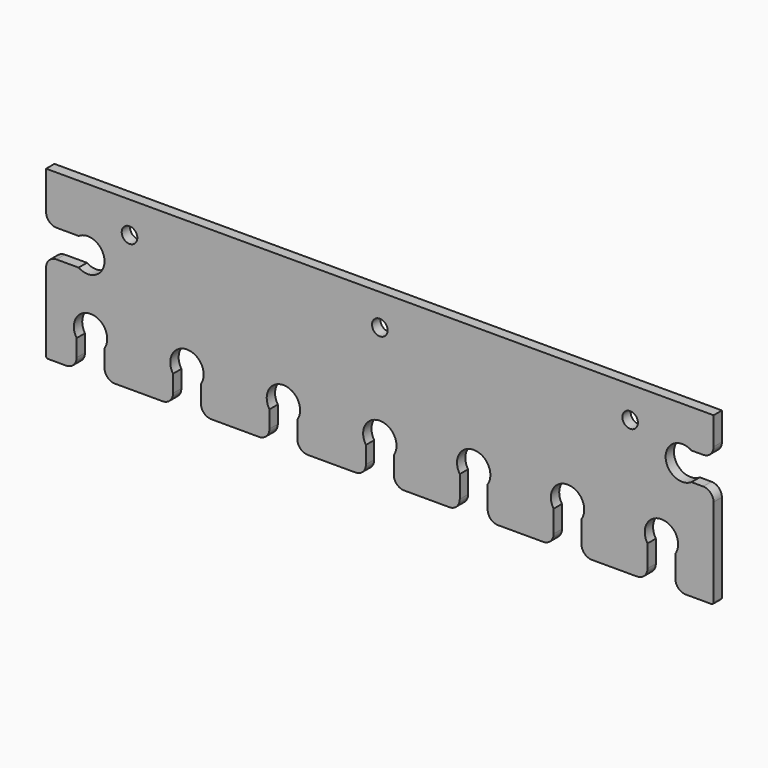
from build123d import *

# Parameters (mm, degrees)
F0_R     = 2.3749
F1_DEPTH = 3.175


with BuildPart() as f1:
    # F0 (on Front) → F1 (new body)
    with BuildSketch(Plane.XZ):
        with BuildLine():
            Line((101.6, 26.883954), (76.2, 26.883954))
            Line((76.2, 26.883954), (-101.6, 26.883954))
            Line((-101.6, 26.883954), (-101.6, 15.250754))
            ThreePointArc((-101.6, 15.250754), (-100.670064, 13.00569), (-98.425, 12.075754))
            Line((-98.425, 12.075754), (-91.69527, 12.075754))
            ThreePointArc((-91.69527, 12.075754), (-83.82, 7.833954), (-91.69527, 3.592154))
            Line((-91.69527, 3.592154), (-98.425, 3.592154))
            ThreePointArc((-98.425, 3.592154), (-100.670064, 2.662218), (-101.6, 0.417154))
            Line((-101.6, 0.417154), (-101.6, -23.281046))
            ThreePointArc((-101.6, -23.281046), (-101.414013, -23.730059), (-100.965, -23.916046))
            Line((-100.965, -23.916046), (-95.4786, -23.916046))
            ThreePointArc((-95.4786, -23.916046), (-93.233536, -22.98611), (-92.3036, -20.741046))
            Line((-92.3036, -20.741046), (-92.3036, -15.49527))
            ThreePointArc((-92.3036, -15.49527), (-88.0618, -7.62), (-83.82, -15.49527))
            Line((-83.82, -15.49527), (-83.82, -20.741046))
            ThreePointArc((-83.82, -20.741046), (-82.890064, -22.98611), (-80.645, -23.916046))
            Line((-80.645, -23.916046), (-66.124667, -23.916046))
            ThreePointArc((-66.124667, -23.916046), (-63.879603, -22.98611), (-62.949667, -20.741046))
            Line((-62.949667, -20.741046), (-62.949667, -15.49527))
            ThreePointArc((-62.949667, -15.49527), (-58.707867, -7.62), (-54.466067, -15.49527))
            Line((-54.466067, -15.49527), (-54.466067, -20.741046))
            ThreePointArc((-54.466067, -20.741046), (-53.536131, -22.98611), (-51.291067, -23.916046))
            Line((-51.291067, -23.916046), (-36.770733, -23.916046))
            ThreePointArc((-36.770733, -23.916046), (-34.525669, -22.98611), (-33.595733, -20.741046))
            Line((-33.595733, -20.741046), (-33.595733, -15.49527))
            ThreePointArc((-33.595733, -15.49527), (-29.353933, -7.62), (-25.112133, -15.49527))
            Line((-25.112133, -15.49527), (-25.112133, -20.741046))
            ThreePointArc((-25.112133, -20.741046), (-24.182197, -22.98611), (-21.937133, -23.916046))
            Line((-21.937133, -23.916046), (-7.4168, -23.916046))
            ThreePointArc((-7.4168, -23.916046), (-5.171736, -22.98611), (-4.2418, -20.741046))
            Line((-4.2418, -20.741046), (-4.2418, -15.49527))
            ThreePointArc((-4.2418, -15.49527), (0, -7.62), (4.2418, -15.49527))
            Line((4.2418, -15.49527), (4.2418, -20.741046))
            ThreePointArc((4.2418, -20.741046), (5.171736, -22.98611), (7.4168, -23.916046))
            Line((7.4168, -23.916046), (21.1582, -23.916046))
            ThreePointArc((21.1582, -23.916046), (23.403264, -22.98611), (24.3332, -20.741046))
            Line((24.3332, -20.741046), (24.3332, -14.011316))
            ThreePointArc((24.3332, -14.011316), (28.575, -6.136046), (32.8168, -14.011316))
            Line((32.8168, -14.011316), (32.8168, -20.741046))
            ThreePointArc((32.8168, -20.741046), (33.746736, -22.98611), (35.9918, -23.916046))
            Line((35.9918, -23.916046), (49.7332, -23.916046))
            ThreePointArc((49.7332, -23.916046), (51.978264, -22.98611), (52.9082, -20.741046))
            Line((52.9082, -20.741046), (52.9082, -14.011316))
            ThreePointArc((52.9082, -14.011316), (57.15, -6.136046), (61.3918, -14.011316))
            Line((61.3918, -14.011316), (61.3918, -20.741046))
            ThreePointArc((61.3918, -20.741046), (62.321736, -22.98611), (64.5668, -23.916046))
            Line((64.5668, -23.916046), (78.3082, -23.916046))
            ThreePointArc((78.3082, -23.916046), (80.553264, -22.98611), (81.4832, -20.741046))
            Line((81.4832, -20.741046), (81.4832, -14.011316))
            ThreePointArc((81.4832, -14.011316), (85.725, -6.136046), (89.9668, -14.011316))
            Line((89.9668, -14.011316), (89.9668, -20.741046))
            ThreePointArc((89.9668, -20.741046), (90.896736, -22.98611), (93.1418, -23.916046))
            Line((93.1418, -23.916046), (100.965, -23.916046))
            ThreePointArc((100.965, -23.916046), (101.414013, -23.730059), (101.6, -23.281046))
            Line((101.6, -23.281046), (101.6, 3.592154))
            ThreePointArc((101.6, 3.592154), (100.670064, 5.837218), (98.425, 6.767154))
            Line((98.425, 6.767154), (94.87027, 6.767154))
            ThreePointArc((94.87027, 6.767154), (86.995, 11.008954), (94.87027, 15.250754))
            Line((94.87027, 15.250754), (98.425, 15.250754))
            ThreePointArc((98.425, 15.250754), (100.670064, 16.18069), (101.6, 18.425754))
            Line((101.6, 18.425754), (101.6, 26.883954))
        make_face()
        with Locations((-76.2, 17.358954)):
            Circle(F0_R, mode=Mode.SUBTRACT)
        with Locations((0, 17.358954)):
            Circle(F0_R, mode=Mode.SUBTRACT)
        with Locations((76.2, 17.358954)):
            Circle(F0_R, mode=Mode.SUBTRACT)
    extrude(amount=F1_DEPTH)


solid = f1.part
